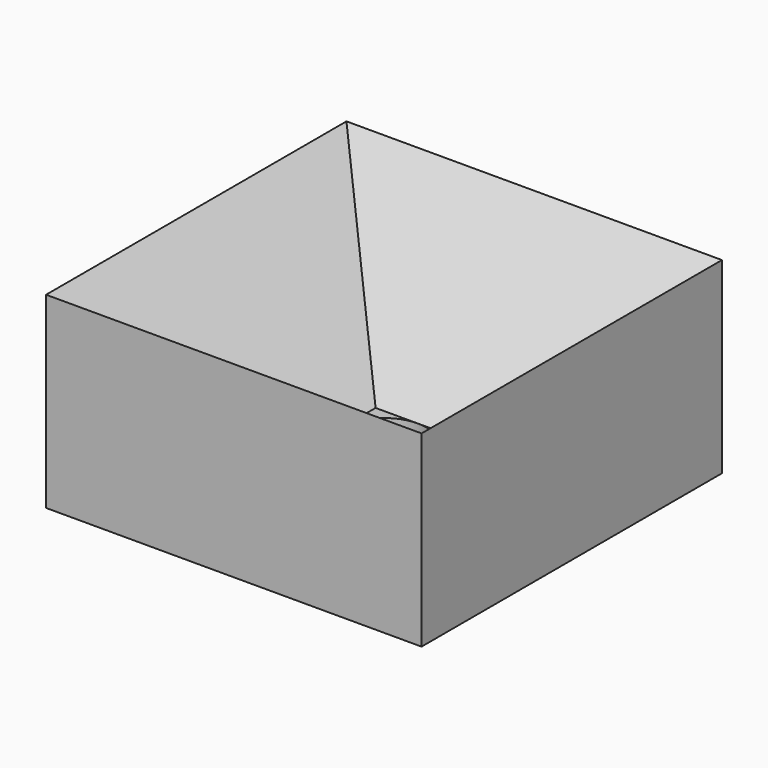
from build123d import *

# Parameters (mm, degrees)
F1_DEPTH = 25
F3_DEPTH = 25
F4_R     = 2.8
F5_DEPTH = 2.801


with BuildPart() as f1:
    # F0 (on Front) → F1 (new body)
    with BuildSketch(Plane.XZ):
        Polygon((-12.5, 12.5), (-12.5, 0), (0, 0), (-2.8, 2.8), align=None)
        Polygon((2.8, 2.8), (0, 0), (12.5, 0), (12.5, 12.5), align=None)
        Polygon((-2.8, 2.8), (0, 0), (2.8, 2.8), align=None)
    extrude(amount=-F1_DEPTH)

    # F2 (on face) → F3 (join)
    with BuildSketch(Plane.YZ.offset(12.5)):
        Polygon((0, 0), (12.5, 0), (0, 12.5), align=None)
        Polygon((25, 12.5), (12.5, 0), (25, 0), align=None)
    extrude(amount=-F3_DEPTH)

    # F4 (on face) → F5 (cut, through all)
    with BuildSketch(Plane.XY.offset(2.8)):
        with Locations((0, 12.5)):
            Circle(F4_R)
    extrude(amount=-F5_DEPTH, mode=Mode.SUBTRACT)


solid = f1.part
